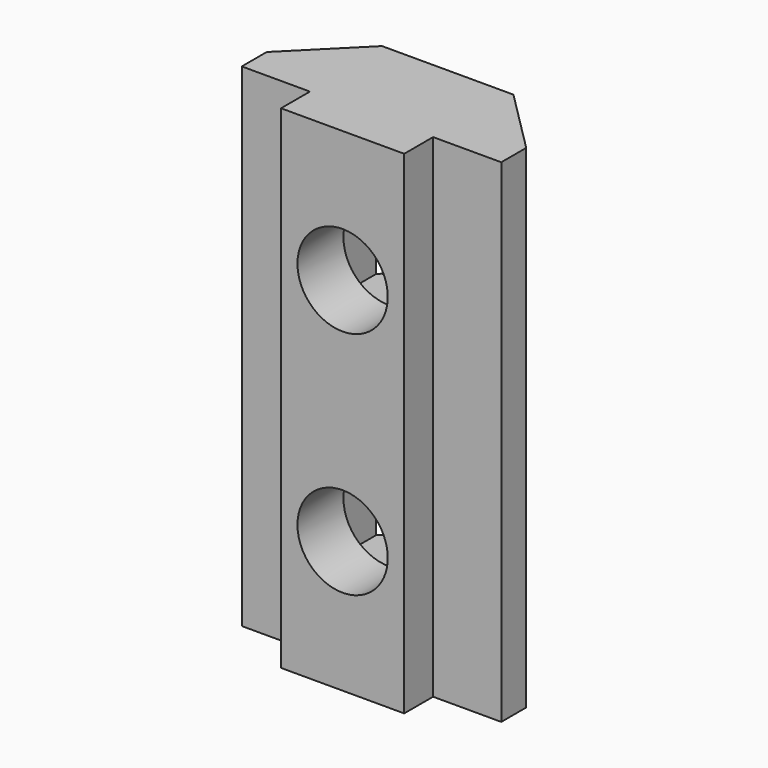
from build123d import *

# Parameters (mm, degrees)
PAD003_DEPTH           = 30
SKETCH005_W            = 8.4
SKETCH005_H            = 8.4
POCKET001_DEPTH        = 4.5
LINEARPATTERN002_COUNT = 2
LINEARPATTERN002_PITCH = 14
SKETCH004_R            = 2.75
HOLE001_DEPTH          = 25
LINEARPATTERN003_COUNT = 2
LINEARPATTERN003_PITCH = 14


with BuildPart() as part:
    # Sketch006 → Pad003 (new body)
    with BuildSketch(Plane.XY):
        Polygon((0, 0), (0, 8), (-4, 8), (-7.9, 4.1), (-7.9, 2.2), (-3.75, 2.2), (-3.75, 0), align=None)
    pad003 = extrude(amount=PAD003_DEPTH)

    # Mirrored001: Pad003 across Sketch006 V_Axis
    add(pad003.mirror(Plane(origin=(0, 0, 0), x_dir=(0, 0, 1), z_dir=(1, 0, 0))))

    # Sketch005 (on DatumPlane) → Pocket001 (cut)
    with BuildSketch(Plane(origin=(0, 8, 0), x_dir=(-1, 0, 0), z_dir=(0, 1, 0))):
        with Locations((0, 8)):
            Rectangle(SKETCH005_W, SKETCH005_H)
    pocket001 = extrude(amount=-POCKET001_DEPTH, mode=Mode.SUBTRACT)

    # LinearPattern002: Pocket001 ×2
    with Locations(*[(0, 0, i * LINEARPATTERN002_PITCH) for i in range(1, LINEARPATTERN002_COUNT)]):
        add(pocket001, mode=Mode.SUBTRACT)

    # Sketch004 (on DatumPlane) → Hole001 (cut)
    with BuildSketch(Plane(origin=(0, 8, 0), x_dir=(-1, 0, 0), z_dir=(0, 1, 0))):
        with Locations((0, 8)):
            Circle(SKETCH004_R)
    hole001 = extrude(amount=-HOLE001_DEPTH, mode=Mode.SUBTRACT)

    # LinearPattern003: Hole001 ×2
    with Locations(*[(0, 0, i * LINEARPATTERN003_PITCH) for i in range(1, LINEARPATTERN003_COUNT)]):
        add(hole001, mode=Mode.SUBTRACT)


solid = part.part
